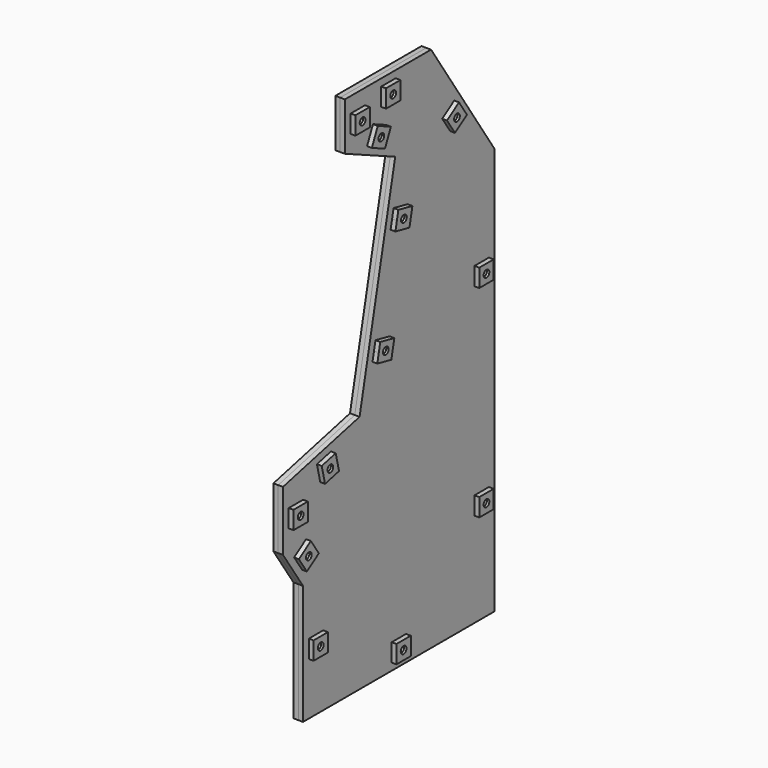
from build123d import *

# Parameters (mm, degrees)
F1_DEPTH = 2
F3_DEPTH = 4
F4_DEPTH = 3


with BuildPart() as f1:
    # F0 (on Right) → F1 (new body)
    with BuildSketch(Plane.YZ):
        Polygon((-100, 0), (0, 0), (0, 170), (-33.1662479036, 220), (-78.1662479036, 220), (-78.1662479036, 200), (-51.890947385, 188.2299089269), (-70.4886778329, 100.1724025904), (-110.4752553419, 90.6706333282), (-110.4752553419, 65.6706333282), (-100, 50), align=None)
        Polygon((-109.4752553419, 65.9740877457), (-109.4752553419, 89.8804123914), (-69.6411657659, 99.3459468658), (-50.7458054642, 188.8126865931), (-77.1662479036, 200.6477943775), (-77.1662479036, 219), (-33.7029229455, 219), (-1, 169.6984886554), (-1, 1), (-99, 1), (-99, 50.3034544175), align=None, mode=Mode.SUBTRACT)
        Polygon((-69.6411657659, 99.3459468658), (-109.4752553419, 89.8804123914), (-109.4752553419, 65.9740877457), (-99, 50.3034544175), (-99, 1), (-1, 1), (-1, 169.6984886554), (-33.7029229455, 219), (-77.1662479036, 219), (-77.1662479036, 200.6477943775), (-50.7458054642, 188.8126865931), align=None)
        Polygon((-75.1662479036, 201.9433831324), (-75.1662479036, 217), (-34.7762730293, 217), (-3, 169.0954659663), (-3, 3), (-97, 3), (-97, 50.9103632525), (-107.4752553419, 66.5809965807), (-107.4752553419, 88.2999705179), (-67.946141632, 97.6930354164), (-48.4555216226, 189.9782419256), align=None, mode=Mode.SUBTRACT)
        Polygon((-34.7762730293, 217), (-75.1662479036, 217), (-75.1662479036, 201.9433831324), (-48.4555216226, 189.9782419256), (-67.946141632, 97.6930354164), (-107.4752553419, 88.2999705179), (-107.4752553419, 66.5809965807), (-97, 50.9103632525), (-97, 3), (-3, 3), (-3, 169.0954659663), align=None)
    extrude(amount=F1_DEPTH)

    # F2 (on face) → F3 (join)
    with BuildSketch(Plane(origin=(0, 0, 0), x_dir=(0, -1, 0), z_dir=(-1, 0, 0))):
        Polygon((92.7442477105, 91.8004110215), (89.0958373538, 92.6673607717), (85.4474269971, 93.5343105219), (83.7135274967, 86.2374898086), (91.0103482101, 84.5035903082), align=None)
        Polygon((86.1891498255, 92.3302144934), (88.8646507537, 91.6944513433), (91.540151682, 91.0586881931), (90.9043885317, 88.3831872642), (90.2686253817, 85.7076863367), (87.5931244535, 86.3434494868), (84.9176235252, 86.979212637), (85.5533867473, 89.6547138677), align=None, mode=Mode.SUBTRACT)
        Polygon((97, 21.9017272087), (97, 25.6517272087), (97, 29.4017272087), (89.5, 29.4017272087), (89.5, 21.9017272087), align=None)
        Polygon((96, 28.4017272087), (96, 25.6517272087), (96, 22.9017272087), (93.25, 22.9017272087), (90.5, 22.9017272087), (90.5, 25.6517272087), (90.5, 28.4017272087), (93.25, 28.4017272087), align=None, mode=Mode.SUBTRACT)
        Polygon((46.25, 3), (50, 3), (53.75, 3), (53.75, 10.5), (46.25, 10.5), align=None)
        Polygon((52.75, 4), (50, 4), (47.25, 4), (47.25, 6.75), (47.25, 9.5), (50, 9.5), (52.75, 9.5), (52.75, 6.75), align=None, mode=Mode.SUBTRACT)
        Polygon((3, 46.9246221639), (3, 43.1746221639), (3, 39.4246221639), (10.5, 39.4246221639), (10.5, 46.9246221639), align=None)
        Polygon((4, 40.4246221639), (4, 43.1746221639), (4, 45.9246221639), (6.7500000593, 45.9246221639), (9.5, 45.9246221639), (9.5, 43.1746221639), (9.5, 40.4246221639), (6.7499999407, 40.4246221639), align=None, mode=Mode.SUBTRACT)
        Polygon((3, 131.2738664916), (3, 127.5238664916), (3, 123.7738664916), (10.5, 123.7738664916), (10.5, 131.2738664916), align=None)
        Polygon((4, 124.7738664916), (4, 127.5238664916), (4, 130.2738664916), (6.75, 130.2738664916), (9.5, 130.2738664916), (9.5, 127.5238664916), (9.5, 124.7738664916), (6.75, 124.7738664916), align=None, mode=Mode.SUBTRACT)
        Polygon((21.0910186334, 196.3687027309), (19.0181281394, 193.2437027309), (16.9452376454, 190.1187027309), (23.1952376454, 185.972921743), (27.3410186334, 192.222921743), align=None)
        Polygon((18.3313417772, 190.3992652659), (19.8514614727, 192.6909319325), (21.3715811683, 194.9825985992), (23.6632483085, 193.4624785895), (25.9549145017, 191.942359208), (24.4347948061, 189.6506925414), (22.9146751105, 187.3590258747), (20.6230085343, 188.8791455103), align=None, mode=Mode.SUBTRACT)
        Polygon((59.1845854245, 217), (55.4345854245, 217), (51.6845854245, 217), (51.6845854245, 209.5), (59.1845854245, 209.5), align=None)
        Polygon((52.6845854245, 216), (55.4345854245, 216), (58.1845854245, 216), (58.1845854245, 213.25), (58.1845854245, 210.5), (55.4345854245, 210.5), (52.6845854245, 210.5), (52.6845854245, 213.2500000366), align=None, mode=Mode.SUBTRACT)
        Polygon((59.7160833992, 195.0224406609), (63.1384060986, 196.5554792583), (66.560728798, 198.0885178557), (63.4946516032, 204.9331632545), (56.6500062044, 201.8670860597), align=None)
        Polygon((65.2392991189, 198.5923269496), (62.729595806, 197.4680986448), (60.2198924931, 196.34387034), (59.0956640162, 198.8535740371), (57.9714358835, 201.3632769658), (60.4811391964, 202.4875052706), (62.9908425093, 203.6117335754), (64.1150707723, 201.1020303559), align=None, mode=Mode.SUBTRACT)
        Polygon((54.2877175008, 162.3636559984), (53.5128120655, 166.0327187624), (52.7379066302, 169.7017815265), (45.3997811022, 168.1519706558), (46.9495919728, 160.8138451278), align=None)
        Polygon((51.9661313425, 168.51672334), (52.5343953284, 165.826077313), (53.1026593143, 163.1354312861), (50.4120132196, 162.5671672858), (47.7213672605, 161.9989033143), (47.1531032746, 164.6895493412), (46.5848392886, 167.3801953682), (49.2754853834, 167.9484593684), align=None, mode=Mode.SUBTRACT)
        Polygon((63.7353976517, 117.6302861347), (62.9604922164, 121.2993488988), (62.185586781, 124.9684116628), (54.847461253, 123.4186007921), (56.3972721236, 116.0804752641), align=None)
        Polygon((61.4138114934, 123.7833534763), (61.9820754793, 121.0927074493), (62.5503394652, 118.4020614224), (59.8596933704, 117.8337974222), (57.1690474113, 117.2655334506), (56.6007834254, 119.9561794775), (56.0325194395, 122.6468255045), (58.7231658384, 123.2150895689), align=None, mode=Mode.SUBTRACT)
        Polygon((100.490904179, 56.1326397114), (102.5749077128, 59.250239633), (104.6589112466, 62.3678395546), (98.4237114034, 66.5358466221), (94.2557043358, 60.3006467789), align=None)
        Polygon((103.2718169918, 62.0922138511), (101.7435477337, 59.8059739086), (100.2152784756, 57.5197339661), (97.9290386515, 59.0480031451), (95.6427985906, 60.5762724823), (97.1710678487, 62.8625124249), (98.6993371068, 65.1487523674), (100.9855770903, 63.6204830818), align=None, mode=Mode.SUBTRACT)
        Polygon((107.4752553419, 74.1772500686), (107.4752553419, 77.9272500686), (107.4752553419, 81.6772500686), (99.9752553419, 81.6772500686), (99.9752553419, 74.1772500686), align=None)
        Polygon((106.4752553419, 80.6772500686), (106.4752553419, 77.9272500686), (106.4752553419, 75.1772500686), (103.7252553419, 75.1772500686), (100.9752553419, 75.1772500686), (100.9752553419, 77.9272500686), (100.9752553419, 80.6772500686), (103.7252553419, 80.6772500686), align=None, mode=Mode.SUBTRACT)
        Polygon((75.1662479036, 206.0738971887), (75.1662479036, 209.8238971887), (75.1662479036, 213.5738971887), (67.6662479036, 213.5738971887), (67.6662479036, 206.0738971887), align=None)
        Polygon((74.1662479036, 212.5738971887), (74.1662479036, 209.8238971887), (74.1662479036, 207.0738971887), (71.4162479036, 207.0738971887), (68.6662479036, 207.0738971887), (68.6662479036, 209.8238971887), (68.6662479036, 212.5738971887), (71.4162479036, 212.5738971887), align=None, mode=Mode.SUBTRACT)
        with BuildLine():
            ThreePointArc((90.9788876036, 89.018950415), (90.386530839, 90.7239652738), (88.8646507537, 91.6944513433))
            Line((88.8646507537, 91.6944513433), (88.5756675037, 90.4783145577))
            ThreePointArc((88.5756675037, 90.4783145577), (89.4057839138, 89.9489585198), (89.7288876036, 89.018950415))
            ThreePointArc((89.7288876036, 89.018950415), (89.1588957084, 87.8420541048), (87.8821077035, 87.5595862724))
            Line((87.8821077035, 87.5595862724), (87.5931244535, 86.3434494868))
            ThreePointArc((87.5931244535, 86.3434494868), (89.671200018, 86.6775331308), (90.9043885317, 88.3831872642))
            ThreePointArc((90.9043885317, 88.3831872642), (90.9601993354, 88.6988938202), (90.9788876036, 89.018950415))
        make_face()
        with BuildLine():
            Line((88.5756675037, 90.4783145577), (88.8646507537, 91.6944513433))
            ThreePointArc((88.8646507537, 91.6944513433), (86.7865753213, 91.3603677807), (85.5533867473, 89.6547138677))
            ThreePointArc((85.5533867473, 89.6547138677), (85.8874702379, 87.5766381327), (87.5931244535, 86.3434494868))
            Line((87.5931244535, 86.3434494868), (87.8821077035, 87.5595862724))
            ThreePointArc((87.8821077035, 87.5595862724), (86.7695234609, 89.3657303151), (88.5756675037, 90.4783145577))
        make_face()
        with BuildLine():
            Line((94.75, 25.6517272087), (96, 25.6517272087))
            ThreePointArc((96, 25.6517272087), (95.1945436483, 27.596270857), (93.25, 28.4017272087))
            ThreePointArc((93.25, 28.4017272087), (91.3054563517, 27.596270857), (90.5, 25.6517272087))
            Line((90.5, 25.6517272087), (91.75, 25.6517272087))
            ThreePointArc((91.75, 25.6517272087), (93.25, 27.1517272087), (94.75, 25.6517272087))
        make_face()
        with BuildLine():
            ThreePointArc((93.25, 22.9017272087), (95.1945436483, 23.7071835605), (96, 25.6517272087))
            Line((96, 25.6517272087), (94.75, 25.6517272087))
            ThreePointArc((94.75, 25.6517272087), (93.25, 24.1517272087), (91.75, 25.6517272087))
            Line((91.75, 25.6517272087), (90.5, 25.6517272087))
            ThreePointArc((90.5, 25.6517272087), (91.3054563517, 23.7071835605), (93.25, 22.9017272087))
        make_face()
        with BuildLine():
            ThreePointArc((47.25, 6.75), (48.0554563517, 4.8054563517), (50, 4))
            Line((50, 4), (50, 5.25))
            ThreePointArc((50, 5.25), (48.5, 6.75), (50, 8.25))
            Line((50, 8.25), (50, 9.5))
            ThreePointArc((50, 9.5), (48.0554563517, 8.6945436483), (47.25, 6.75))
        make_face()
        with BuildLine():
            Line((50, 5.25), (50, 4))
            ThreePointArc((50, 4), (51.9445436483, 4.8054563517), (52.75, 6.75))
            ThreePointArc((52.75, 6.75), (51.9445436483, 8.6945436483), (50, 9.5))
            Line((50, 9.5), (50, 8.25))
            ThreePointArc((50, 8.25), (51.0606601718, 7.8106601718), (51.5, 6.75))
            ThreePointArc((51.5, 6.75), (51.0606601718, 5.6893398282), (50, 5.25))
        make_face()
        with BuildLine():
            Line((5.25, 43.1746221639), (4, 43.1746221639))
            ThreePointArc((4, 43.1746221639), (4.8054563308, 41.2300785366), (6.7499999407, 40.4246221639))
            ThreePointArc((6.7499999407, 40.4246221639), (8.6945436273, 41.2300784946), (9.5, 43.1746221639))
            Line((9.5, 43.1746221639), (8.25, 43.1746221639))
            ThreePointArc((8.25, 43.1746221639), (6.75, 41.6746221639), (5.25, 43.1746221639))
        make_face()
        with BuildLine():
            ThreePointArc((6.7500000593, 45.9246221639), (4.8054563727, 45.1191658331), (4, 43.1746221639))
            Line((4, 43.1746221639), (5.25, 43.1746221639))
            ThreePointArc((5.25, 43.1746221639), (6.75, 44.6746221639), (8.25, 43.1746221639))
            Line((8.25, 43.1746221639), (9.5, 43.1746221639))
            ThreePointArc((9.5, 43.1746221639), (8.6945436692, 45.1191657912), (6.7500000593, 45.9246221639))
        make_face()
        with BuildLine():
            ThreePointArc((6.75, 130.2738664916), (4.8054563517, 129.4684101398), (4, 127.5238664916))
            Line((4, 127.5238664916), (5.25, 127.5238664916))
            ThreePointArc((5.25, 127.5238664916), (6.75, 129.0238664916), (8.25, 127.5238664916))
            Line((8.25, 127.5238664916), (9.5, 127.5238664916))
            ThreePointArc((9.5, 127.5238664916), (8.6945436483, 129.4684101398), (6.75, 130.2738664916))
        make_face()
        with BuildLine():
            Line((5.25, 127.5238664916), (4, 127.5238664916))
            ThreePointArc((4, 127.5238664916), (4.8054563517, 125.5793228433), (6.75, 124.7738664916))
            ThreePointArc((6.75, 124.7738664916), (8.6945436483, 125.5793228433), (9.5, 127.5238664916))
            Line((9.5, 127.5238664916), (8.25, 127.5238664916))
            ThreePointArc((8.25, 127.5238664916), (6.75, 126.0238664916), (5.25, 127.5238664916))
        make_face()
        with BuildLine():
            ThreePointArc((23.6632483085, 193.4624785895), (21.5975623226, 193.8661522785), (19.8514614727, 192.6909319325))
            Line((19.8514614727, 192.6909319325), (20.8931281394, 191.9999684345))
            ThreePointArc((20.8931281394, 191.9999684345), (22.5761408413, 192.6069528986), (23.6431281394, 191.170812237))
            ThreePointArc((23.6431281394, 191.170812237), (23.579268801, 190.7377995351), (23.3931281394, 190.3416560394))
            Line((23.3931281394, 190.3416560394), (24.4347948061, 189.6506925414))
            ThreePointArc((24.4347948061, 189.6506925414), (24.7760526857, 190.3769556168), (24.8931281394, 191.170812237))
            ThreePointArc((24.8931281394, 191.170812237), (24.5662284742, 192.4712293883), (23.6632483085, 193.4624785895))
        make_face()
        with BuildLine():
            Line((20.8931281394, 191.9999684345), (19.8514614727, 192.6909319325))
            ThreePointArc((19.8514614727, 192.6909319325), (19.447788165, 190.6252460885), (20.6230085343, 188.8791455103))
            ThreePointArc((20.6230085343, 188.8791455103), (22.6886942879, 188.4754722625), (24.4347948061, 189.6506925414))
            Line((24.4347948061, 189.6506925414), (23.3931281394, 190.3416560394))
            ThreePointArc((23.3931281394, 190.3416560394), (21.3139719418, 189.920812237), (20.8931281394, 191.9999684345))
        make_face()
        with BuildLine():
            Line((55.4345854245, 214.75), (55.4345854245, 216))
            ThreePointArc((55.4345854245, 216), (53.4900417892, 215.1945436612), (52.6845854245, 213.2500000366))
            ThreePointArc((52.6845854245, 213.2500000366), (53.4900417633, 211.3054563647), (55.4345854245, 210.5))
            Line((55.4345854245, 210.5), (55.4345854245, 211.75))
            ThreePointArc((55.4345854245, 211.75), (53.9345854245, 213.25), (55.4345854245, 214.75))
        make_face()
        with BuildLine():
            ThreePointArc((58.1845854245, 213.25), (57.3791290728, 215.1945436483), (55.4345854245, 216))
            Line((55.4345854245, 216), (55.4345854245, 214.75))
            ThreePointArc((55.4345854245, 214.75), (56.4952455963, 214.3106601718), (56.9345854245, 213.25))
            ThreePointArc((56.9345854245, 213.25), (56.4952455963, 212.1893398282), (55.4345854245, 211.75))
            Line((55.4345854245, 211.75), (55.4345854245, 210.5))
            ThreePointArc((55.4345854245, 210.5), (57.3791290728, 211.3054563517), (58.1845854245, 213.25))
        make_face()
        with BuildLine():
            ThreePointArc((59.0956640162, 198.8535740371), (60.6256885311, 197.4082243435), (62.729595806, 197.4680986448))
            Line((62.729595806, 197.4680986448), (62.2185829402, 198.608872878))
            ThreePointArc((62.2185829402, 198.608872878), (60.2364384214, 199.3645865187), (60.9921520622, 201.3467310375))
            Line((60.9921520622, 201.3467310375), (60.4811391964, 202.4875052706))
            ThreePointArc((60.4811391964, 202.4875052706), (59.035789887, 200.9574809278), (59.0956640162, 198.8535740371))
        make_face()
        with BuildLine():
            Line((62.2185829402, 198.608872878), (62.729595806, 197.4680986448))
            ThreePointArc((62.729595806, 197.4680986448), (63.9134108108, 198.4826644788), (64.3553675012, 199.9778019577))
            ThreePointArc((64.3553675012, 199.9778019577), (64.2946224162, 200.5526132331), (64.1150707723, 201.1020303559))
            ThreePointArc((64.1150707723, 201.1020303559), (62.5850462268, 202.5473796652), (60.4811391964, 202.4875052706))
            Line((60.4811391964, 202.4875052706), (60.9921520622, 201.3467310375))
            ThreePointArc((60.9921520622, 201.3467310375), (62.4208970352, 201.236734672), (63.1053675012, 199.9778019577))
            ThreePointArc((63.1053675012, 199.9778019577), (62.8643002155, 199.1622724237), (62.2185829402, 198.608872878))
        make_face()
        with BuildLine():
            Line((51.3113744071, 165.5677755012), (52.5343953284, 165.826077313))
            ThreePointArc((52.5343953284, 165.826077313), (51.344500064, 167.5622106776), (49.2754853834, 167.9484593684))
            ThreePointArc((49.2754853834, 167.9484593684), (47.539351951, 166.7585640896), (47.1531032746, 164.6895493412))
            Line((47.1531032746, 164.6895493412), (48.3761241959, 164.947851153))
            ThreePointArc((48.3761241959, 164.947851153), (49.5337871274, 166.7254384327), (51.3113744071, 165.5677755012))
        make_face()
        with BuildLine():
            ThreePointArc((52.5937493015, 165.2578133271), (52.5788705579, 165.5434909653), (52.5343953284, 165.826077313))
            Line((52.5343953284, 165.826077313), (51.3113744071, 165.5677755012))
            ThreePointArc((51.3113744071, 165.5677755012), (51.3356336232, 165.4136374934), (51.3437493015, 165.2578133271))
            ThreePointArc((51.3437493015, 165.2578133271), (49.9995734678, 163.7659290055), (48.3761241959, 164.947851153))
            Line((48.3761241959, 164.947851153), (47.1531032746, 164.6895493412))
            ThreePointArc((47.1531032746, 164.6895493412), (48.342998539, 162.9534159767), (50.4120132196, 162.5671672858))
            ThreePointArc((50.4120132196, 162.5671672858), (51.9797766626, 163.5257951076), (52.5937493015, 165.2578133271))
        make_face()
        with BuildLine():
            Line((60.7590545579, 120.8344056376), (61.9820754793, 121.0927074493))
            ThreePointArc((61.9820754793, 121.0927074493), (60.7921803451, 122.8288407291), (58.7231658384, 123.2150895689))
            ThreePointArc((58.7231658384, 123.2150895689), (56.9870321867, 122.0251943562), (56.6007834254, 119.9561794775))
            Line((56.6007834254, 119.9561794775), (57.8238043467, 120.2144812893))
            ThreePointArc((57.8238043467, 120.2144812893), (58.9814672782, 121.992068569), (60.7590545579, 120.8344056376))
        make_face()
        with BuildLine():
            ThreePointArc((62.0414294523, 120.5244434634), (62.0265507087, 120.8101211016), (61.9820754793, 121.0927074493))
            Line((61.9820754793, 121.0927074493), (60.7590545579, 120.8344056376))
            ThreePointArc((60.7590545579, 120.8344056376), (60.783313774, 120.6802676297), (60.7914294523, 120.5244434634))
            ThreePointArc((60.7914294523, 120.5244434634), (59.4472536186, 119.0325591418), (57.8238043467, 120.2144812893))
            Line((57.8238043467, 120.2144812893), (56.6007834254, 119.9561794775))
            ThreePointArc((56.6007834254, 119.9561794775), (57.7906786898, 118.220046113), (59.8596933704, 117.8337974222))
            ThreePointArc((59.8596933704, 117.8337974222), (61.4274568134, 118.7924252439), (62.0414294523, 120.5244434634))
        make_face()
        with BuildLine():
            Line((105.2252553419, 77.9272500686), (106.4752553419, 77.9272500686))
            ThreePointArc((106.4752553419, 77.9272500686), (105.6697989902, 79.8717937168), (103.7252553419, 80.6772500686))
            ThreePointArc((103.7252553419, 80.6772500686), (101.7807116936, 79.8717937168), (100.9752553419, 77.9272500686))
            Line((100.9752553419, 77.9272500686), (102.2252553419, 77.9272500686))
            ThreePointArc((102.2252553419, 77.9272500686), (103.7252553419, 79.4272500686), (105.2252553419, 77.9272500686))
        make_face()
        with BuildLine():
            ThreePointArc((103.7252553419, 75.1772500686), (105.6697989902, 75.9827064203), (106.4752553419, 77.9272500686))
            Line((106.4752553419, 77.9272500686), (105.2252553419, 77.9272500686))
            ThreePointArc((105.2252553419, 77.9272500686), (103.7252553419, 76.4272500686), (102.2252553419, 77.9272500686))
            Line((102.2252553419, 77.9272500686), (100.9752553419, 77.9272500686))
            ThreePointArc((100.9752553419, 77.9272500686), (101.7807116936, 75.9827064203), (103.7252553419, 75.1772500686))
        make_face()
        with BuildLine():
            Line((100.7043477598, 60.5006417532), (101.7435477337, 59.8059739086))
            ThreePointArc((101.7435477337, 59.8059739086), (102.0888149489, 60.5357006951), (102.2073077912, 61.3342431667))
            ThreePointArc((102.2073077912, 61.3342431667), (101.8827191555, 62.6303449041), (100.9855770903, 63.6204830818))
            ThreePointArc((100.9855770903, 63.6204830818), (98.9213416045, 64.0315084942), (97.1710678487, 62.8625124249))
            Line((97.1710678487, 62.8625124249), (98.2102678225, 62.1678445803))
            ThreePointArc((98.2102678225, 62.1678445803), (99.8928764121, 62.7696107073), (100.9573077912, 61.3342431667))
            ThreePointArc((100.9573077912, 61.3342431667), (100.8926753317, 60.8986745458), (100.7043477598, 60.5006417532))
        make_face()
        with BuildLine():
            ThreePointArc((97.9290386515, 59.0480031451), (99.9932740719, 58.636977858), (101.7435477337, 59.8059739086))
            Line((101.7435477337, 59.8059739086), (100.7043477598, 60.5006417532))
            ThreePointArc((100.7043477598, 60.5006417532), (98.6237063777, 60.0872031981), (98.2102678225, 62.1678445803))
            Line((98.2102678225, 62.1678445803), (97.1710678487, 62.8625124249))
            ThreePointArc((97.1710678487, 62.8625124249), (96.7600424824, 60.798276886), (97.9290386515, 59.0480031451))
        make_face()
        with BuildLine():
            ThreePointArc((71.4162479036, 207.0738971887), (73.3607915518, 207.8793535405), (74.1662479036, 209.8238971887))
            Line((74.1662479036, 209.8238971887), (72.9162479036, 209.8238971887))
            ThreePointArc((72.9162479036, 209.8238971887), (71.4162479036, 208.3238971887), (69.9162479036, 209.8238971887))
            Line((69.9162479036, 209.8238971887), (68.6662479036, 209.8238971887))
            ThreePointArc((68.6662479036, 209.8238971887), (69.4717042553, 207.8793535405), (71.4162479036, 207.0738971887))
        make_face()
        with BuildLine():
            Line((72.9162479036, 209.8238971887), (74.1662479036, 209.8238971887))
            ThreePointArc((74.1662479036, 209.8238971887), (73.3607915518, 211.768440837), (71.4162479036, 212.5738971887))
            ThreePointArc((71.4162479036, 212.5738971887), (69.4717042553, 211.768440837), (68.6662479036, 209.8238971887))
            Line((68.6662479036, 209.8238971887), (69.9162479036, 209.8238971887))
            ThreePointArc((69.9162479036, 209.8238971887), (71.4162479036, 211.3238971887), (72.9162479036, 209.8238971887))
        make_face()
        with BuildLine():
            ThreePointArc((85.5533867473, 89.6547138677), (86.7865753213, 91.3603677807), (88.8646507537, 91.6944513433))
            Line((88.8646507537, 91.6944513433), (86.1891498255, 92.3302144934))
            Line((86.1891498255, 92.3302144934), (85.5533867473, 89.6547138677))
        make_face()
        with BuildLine():
            ThreePointArc((87.5931244535, 86.3434494868), (85.8874702379, 87.5766381327), (85.5533867473, 89.6547138677))
            Line((85.5533867473, 89.6547138677), (84.9176235252, 86.979212637))
            Line((84.9176235252, 86.979212637), (87.5931244535, 86.3434494868))
        make_face()
        with BuildLine():
            Line((90.2686253817, 85.7076863367), (90.9043885317, 88.3831872642))
            ThreePointArc((90.9043885317, 88.3831872642), (89.671200018, 86.6775331308), (87.5931244535, 86.3434494868))
            Line((87.5931244535, 86.3434494868), (90.2686253817, 85.7076863367))
        make_face()
        with BuildLine():
            Line((91.540151682, 91.0586881931), (88.8646507537, 91.6944513433))
            ThreePointArc((88.8646507537, 91.6944513433), (90.386530839, 90.7239652738), (90.9788876036, 89.018950415))
            ThreePointArc((90.9788876036, 89.018950415), (90.9601993354, 88.6988938202), (90.9043885317, 88.3831872642))
            Line((90.9043885317, 88.3831872642), (91.540151682, 91.0586881931))
        make_face()
        with BuildLine():
            ThreePointArc((93.25, 28.4017272087), (95.1945436483, 27.596270857), (96, 25.6517272087))
            Line((96, 25.6517272087), (96, 28.4017272087))
            Line((96, 28.4017272087), (93.25, 28.4017272087))
        make_face()
        with BuildLine():
            ThreePointArc((90.5, 25.6517272087), (91.3054563517, 27.596270857), (93.25, 28.4017272087))
            Line((93.25, 28.4017272087), (90.5, 28.4017272087))
            Line((90.5, 28.4017272087), (90.5, 25.6517272087))
        make_face()
        with BuildLine():
            Line((90.5, 22.9017272087), (93.25, 22.9017272087))
            ThreePointArc((93.25, 22.9017272087), (91.3054563517, 23.7071835605), (90.5, 25.6517272087))
            Line((90.5, 25.6517272087), (90.5, 22.9017272087))
        make_face()
        with BuildLine():
            Line((96, 22.9017272087), (96, 25.6517272087))
            ThreePointArc((96, 25.6517272087), (95.1945436483, 23.7071835605), (93.25, 22.9017272087))
            Line((93.25, 22.9017272087), (96, 22.9017272087))
        make_face()
        with BuildLine():
            ThreePointArc((50, 9.5), (51.9445436483, 8.6945436483), (52.75, 6.75))
            Line((52.75, 6.75), (52.75, 9.5))
            Line((52.75, 9.5), (50, 9.5))
        make_face()
        with BuildLine():
            Line((47.25, 9.5), (47.25, 6.75))
            ThreePointArc((47.25, 6.75), (48.0554563517, 8.6945436483), (50, 9.5))
            Line((50, 9.5), (47.25, 9.5))
        make_face()
        with BuildLine():
            Line((47.25, 4), (50, 4))
            ThreePointArc((50, 4), (48.0554563517, 4.8054563517), (47.25, 6.75))
            Line((47.25, 6.75), (47.25, 4))
        make_face()
        with BuildLine():
            ThreePointArc((52.75, 6.75), (51.9445436483, 4.8054563517), (50, 4))
            Line((50, 4), (52.75, 4))
            Line((52.75, 4), (52.75, 6.75))
        make_face()
        with BuildLine():
            Line((4, 45.9246221639), (4, 43.1746221639))
            ThreePointArc((4, 43.1746221639), (4.8054563727, 45.1191658331), (6.7500000593, 45.9246221639))
            Line((6.7500000593, 45.9246221639), (4, 45.9246221639))
        make_face()
        with BuildLine():
            Line((9.5, 45.9246221639), (6.7500000593, 45.9246221639))
            ThreePointArc((6.7500000593, 45.9246221639), (8.6945436692, 45.1191657912), (9.5, 43.1746221639))
            Line((9.5, 43.1746221639), (9.5, 45.9246221639))
        make_face()
        with BuildLine():
            ThreePointArc((6.7499999407, 40.4246221639), (4.8054563308, 41.2300785366), (4, 43.1746221639))
            Line((4, 43.1746221639), (4, 40.4246221639))
            Line((4, 40.4246221639), (6.7499999407, 40.4246221639))
        make_face()
        with BuildLine():
            ThreePointArc((9.5, 43.1746221639), (8.6945436273, 41.2300784946), (6.7499999407, 40.4246221639))
            Line((6.7499999407, 40.4246221639), (9.5, 40.4246221639))
            Line((9.5, 40.4246221639), (9.5, 43.1746221639))
        make_face()
        with BuildLine():
            Line((4, 130.2738664916), (4, 127.5238664916))
            ThreePointArc((4, 127.5238664916), (4.8054563517, 129.4684101398), (6.75, 130.2738664916))
            Line((6.75, 130.2738664916), (4, 130.2738664916))
        make_face()
        with BuildLine():
            ThreePointArc((6.75, 124.7738664916), (4.8054563517, 125.5793228433), (4, 127.5238664916))
            Line((4, 127.5238664916), (4, 124.7738664916))
            Line((4, 124.7738664916), (6.75, 124.7738664916))
        make_face()
        with BuildLine():
            ThreePointArc((9.5, 127.5238664916), (8.6945436483, 125.5793228433), (6.75, 124.7738664916))
            Line((6.75, 124.7738664916), (9.5, 124.7738664916))
            Line((9.5, 124.7738664916), (9.5, 127.5238664916))
        make_face()
        with BuildLine():
            Line((9.5, 130.2738664916), (6.75, 130.2738664916))
            ThreePointArc((6.75, 130.2738664916), (8.6945436483, 129.4684101398), (9.5, 127.5238664916))
            Line((9.5, 127.5238664916), (9.5, 130.2738664916))
        make_face()
        with BuildLine():
            Line((21.3715811683, 194.9825985992), (19.8514614727, 192.6909319325))
            ThreePointArc((19.8514614727, 192.6909319325), (21.5975623226, 193.8661522785), (23.6632483085, 193.4624785895))
            Line((23.6632483085, 193.4624785895), (21.3715811683, 194.9825985992))
        make_face()
        with BuildLine():
            ThreePointArc((20.6230085343, 188.8791455103), (19.447788165, 190.6252460885), (19.8514614727, 192.6909319325))
            Line((19.8514614727, 192.6909319325), (18.3313417772, 190.3992652659))
            Line((18.3313417772, 190.3992652659), (20.6230085343, 188.8791455103))
        make_face()
        with BuildLine():
            Line((25.9549145017, 191.942359208), (23.6632483085, 193.4624785895))
            ThreePointArc((23.6632483085, 193.4624785895), (24.5662284742, 192.4712293883), (24.8931281394, 191.170812237))
            ThreePointArc((24.8931281394, 191.170812237), (24.7760526857, 190.3769556168), (24.4347948061, 189.6506925414))
            Line((24.4347948061, 189.6506925414), (25.9549145017, 191.942359208))
        make_face()
        with BuildLine():
            ThreePointArc((24.4347948061, 189.6506925414), (22.6886942879, 188.4754722625), (20.6230085343, 188.8791455103))
            Line((20.6230085343, 188.8791455103), (22.9146751105, 187.3590258747))
            Line((22.9146751105, 187.3590258747), (24.4347948061, 189.6506925414))
        make_face()
        with BuildLine():
            ThreePointArc((52.6845854245, 213.2500000366), (53.4900417892, 215.1945436612), (55.4345854245, 216))
            Line((55.4345854245, 216), (52.6845854245, 216))
            Line((52.6845854245, 216), (52.6845854245, 213.2500000366))
        make_face()
        with BuildLine():
            Line((58.1845854245, 216), (55.4345854245, 216))
            ThreePointArc((55.4345854245, 216), (57.3791290728, 215.1945436483), (58.1845854245, 213.25))
            Line((58.1845854245, 213.25), (58.1845854245, 216))
        make_face()
        with BuildLine():
            Line((58.1845854245, 210.5), (58.1845854245, 213.25))
            ThreePointArc((58.1845854245, 213.25), (57.3791290728, 211.3054563517), (55.4345854245, 210.5))
            Line((55.4345854245, 210.5), (58.1845854245, 210.5))
        make_face()
        with BuildLine():
            ThreePointArc((55.4345854245, 210.5), (53.4900417633, 211.3054563647), (52.6845854245, 213.2500000366))
            Line((52.6845854245, 213.2500000366), (52.6845854245, 210.5))
            Line((52.6845854245, 210.5), (55.4345854245, 210.5))
        make_face()
        with BuildLine():
            ThreePointArc((60.4811391964, 202.4875052706), (62.5850462268, 202.5473796652), (64.1150707723, 201.1020303559))
            Line((64.1150707723, 201.1020303559), (62.9908425093, 203.6117335754))
            Line((62.9908425093, 203.6117335754), (60.4811391964, 202.4875052706))
        make_face()
        with BuildLine():
            Line((57.9714358835, 201.3632769658), (59.0956640162, 198.8535740371))
            ThreePointArc((59.0956640162, 198.8535740371), (59.035789887, 200.9574809278), (60.4811391964, 202.4875052706))
            Line((60.4811391964, 202.4875052706), (57.9714358835, 201.3632769658))
        make_face()
        with BuildLine():
            ThreePointArc((64.3553675012, 199.9778019577), (63.9134108108, 198.4826644788), (62.729595806, 197.4680986448))
            Line((62.729595806, 197.4680986448), (65.2392991189, 198.5923269496))
            Line((65.2392991189, 198.5923269496), (64.1150707723, 201.1020303559))
            ThreePointArc((64.1150707723, 201.1020303559), (64.2946224162, 200.5526132331), (64.3553675012, 199.9778019577))
        make_face()
        with BuildLine():
            Line((60.2198924931, 196.34387034), (62.729595806, 197.4680986448))
            ThreePointArc((62.729595806, 197.4680986448), (60.6256885311, 197.4082243435), (59.0956640162, 198.8535740371))
            Line((59.0956640162, 198.8535740371), (60.2198924931, 196.34387034))
        make_face()
        with BuildLine():
            ThreePointArc((47.1531032746, 164.6895493412), (47.539351951, 166.7585640896), (49.2754853834, 167.9484593684))
            Line((49.2754853834, 167.9484593684), (46.5848392886, 167.3801953682))
            Line((46.5848392886, 167.3801953682), (47.1531032746, 164.6895493412))
        make_face()
        with BuildLine():
            ThreePointArc((49.2754853834, 167.9484593684), (51.344500064, 167.5622106776), (52.5343953284, 165.826077313))
            Line((52.5343953284, 165.826077313), (51.9661313425, 168.51672334))
            Line((51.9661313425, 168.51672334), (49.2754853834, 167.9484593684))
        make_face()
        with BuildLine():
            Line((53.1026593143, 163.1354312861), (52.5343953284, 165.826077313))
            ThreePointArc((52.5343953284, 165.826077313), (52.5788705579, 165.5434909653), (52.5937493015, 165.2578133271))
            ThreePointArc((52.5937493015, 165.2578133271), (51.9797766626, 163.5257951076), (50.4120132196, 162.5671672858))
            Line((50.4120132196, 162.5671672858), (53.1026593143, 163.1354312861))
        make_face()
        with BuildLine():
            Line((47.7213672605, 161.9989033143), (50.4120132196, 162.5671672858))
            ThreePointArc((50.4120132196, 162.5671672858), (48.342998539, 162.9534159767), (47.1531032746, 164.6895493412))
            Line((47.1531032746, 164.6895493412), (47.7213672605, 161.9989033143))
        make_face()
        with BuildLine():
            ThreePointArc((56.6007834254, 119.9561794775), (56.9870321867, 122.0251943562), (58.7231658384, 123.2150895689))
            Line((58.7231658384, 123.2150895689), (56.0325194395, 122.6468255045))
            Line((56.0325194395, 122.6468255045), (56.6007834254, 119.9561794775))
        make_face()
        with BuildLine():
            ThreePointArc((58.7231658384, 123.2150895689), (60.7921803451, 122.8288407291), (61.9820754793, 121.0927074493))
            Line((61.9820754793, 121.0927074493), (61.4138114934, 123.7833534763))
            Line((61.4138114934, 123.7833534763), (58.7231658384, 123.2150895689))
        make_face()
        with BuildLine():
            Line((62.5503394652, 118.4020614224), (61.9820754793, 121.0927074493))
            ThreePointArc((61.9820754793, 121.0927074493), (62.0265507087, 120.8101211016), (62.0414294523, 120.5244434634))
            ThreePointArc((62.0414294523, 120.5244434634), (61.4274568134, 118.7924252439), (59.8596933704, 117.8337974222))
            Line((59.8596933704, 117.8337974222), (62.5503394652, 118.4020614224))
        make_face()
        with BuildLine():
            Line((57.1690474113, 117.2655334506), (59.8596933704, 117.8337974222))
            ThreePointArc((59.8596933704, 117.8337974222), (57.7906786898, 118.220046113), (56.6007834254, 119.9561794775))
            Line((56.6007834254, 119.9561794775), (57.1690474113, 117.2655334506))
        make_face()
        with BuildLine():
            ThreePointArc((100.9752553419, 77.9272500686), (101.7807116936, 79.8717937168), (103.7252553419, 80.6772500686))
            Line((103.7252553419, 80.6772500686), (100.9752553419, 80.6772500686))
            Line((100.9752553419, 80.6772500686), (100.9752553419, 77.9272500686))
        make_face()
        with BuildLine():
            ThreePointArc((103.7252553419, 80.6772500686), (105.6697989902, 79.8717937168), (106.4752553419, 77.9272500686))
            Line((106.4752553419, 77.9272500686), (106.4752553419, 80.6772500686))
            Line((106.4752553419, 80.6772500686), (103.7252553419, 80.6772500686))
        make_face()
        with BuildLine():
            Line((100.9752553419, 75.1772500686), (103.7252553419, 75.1772500686))
            ThreePointArc((103.7252553419, 75.1772500686), (101.7807116936, 75.9827064203), (100.9752553419, 77.9272500686))
            Line((100.9752553419, 77.9272500686), (100.9752553419, 75.1772500686))
        make_face()
        with BuildLine():
            Line((106.4752553419, 75.1772500686), (106.4752553419, 77.9272500686))
            ThreePointArc((106.4752553419, 77.9272500686), (105.6697989902, 75.9827064203), (103.7252553419, 75.1772500686))
            Line((103.7252553419, 75.1772500686), (106.4752553419, 75.1772500686))
        make_face()
        with BuildLine():
            ThreePointArc((97.1710678487, 62.8625124249), (98.9213416045, 64.0315084942), (100.9855770903, 63.6204830818))
            Line((100.9855770903, 63.6204830818), (98.6993371068, 65.1487523674))
            Line((98.6993371068, 65.1487523674), (97.1710678487, 62.8625124249))
        make_face()
        with BuildLine():
            ThreePointArc((102.2073077912, 61.3342431667), (102.0888149489, 60.5357006951), (101.7435477337, 59.8059739086))
            Line((101.7435477337, 59.8059739086), (103.2718169918, 62.0922138511))
            Line((103.2718169918, 62.0922138511), (100.9855770903, 63.6204830818))
            ThreePointArc((100.9855770903, 63.6204830818), (101.8827191555, 62.6303449041), (102.2073077912, 61.3342431667))
        make_face()
        with BuildLine():
            Line((100.2152784756, 57.5197339661), (101.7435477337, 59.8059739086))
            ThreePointArc((101.7435477337, 59.8059739086), (99.9932740719, 58.636977858), (97.9290386515, 59.0480031451))
            Line((97.9290386515, 59.0480031451), (100.2152784756, 57.5197339661))
        make_face()
        with BuildLine():
            Line((95.6427985906, 60.5762724823), (97.9290386515, 59.0480031451))
            ThreePointArc((97.9290386515, 59.0480031451), (96.7600424824, 60.798276886), (97.1710678487, 62.8625124249))
            Line((97.1710678487, 62.8625124249), (95.6427985906, 60.5762724823))
        make_face()
        with BuildLine():
            ThreePointArc((71.4162479036, 212.5738971887), (73.3607915518, 211.768440837), (74.1662479036, 209.8238971887))
            Line((74.1662479036, 209.8238971887), (74.1662479036, 212.5738971887))
            Line((74.1662479036, 212.5738971887), (71.4162479036, 212.5738971887))
        make_face()
        with BuildLine():
            Line((74.1662479036, 207.0738971887), (74.1662479036, 209.8238971887))
            ThreePointArc((74.1662479036, 209.8238971887), (73.3607915518, 207.8793535405), (71.4162479036, 207.0738971887))
            Line((71.4162479036, 207.0738971887), (74.1662479036, 207.0738971887))
        make_face()
        with BuildLine():
            ThreePointArc((68.6662479036, 209.8238971887), (69.4717042553, 211.768440837), (71.4162479036, 212.5738971887))
            Line((71.4162479036, 212.5738971887), (68.6662479036, 212.5738971887))
            Line((68.6662479036, 212.5738971887), (68.6662479036, 209.8238971887))
        make_face()
        with BuildLine():
            Line((68.6662479036, 207.0738971887), (71.4162479036, 207.0738971887))
            ThreePointArc((71.4162479036, 207.0738971887), (69.4717042553, 207.8793535405), (68.6662479036, 209.8238971887))
            Line((68.6662479036, 209.8238971887), (68.6662479036, 207.0738971887))
        make_face()
    extrude(amount=-F3_DEPTH)

    # F2 (on face) → F4 (cut)
    with BuildSketch(Plane(origin=(0, 0, 0), x_dir=(0, -1, 0), z_dir=(-1, 0, 0))):
        with BuildLine():
            ThreePointArc((90.9788876036, 89.018950415), (90.386530839, 90.7239652738), (88.8646507537, 91.6944513433))
            Line((88.8646507537, 91.6944513433), (88.5756675037, 90.4783145577))
            ThreePointArc((88.5756675037, 90.4783145577), (89.4057839138, 89.9489585198), (89.7288876036, 89.018950415))
            ThreePointArc((89.7288876036, 89.018950415), (89.1588957084, 87.8420541048), (87.8821077035, 87.5595862724))
            Line((87.8821077035, 87.5595862724), (87.5931244535, 86.3434494868))
            ThreePointArc((87.5931244535, 86.3434494868), (89.671200018, 86.6775331308), (90.9043885317, 88.3831872642))
            ThreePointArc((90.9043885317, 88.3831872642), (90.9601993354, 88.6988938202), (90.9788876036, 89.018950415))
        make_face()
        with BuildLine():
            Line((88.5756675037, 90.4783145577), (88.8646507537, 91.6944513433))
            ThreePointArc((88.8646507537, 91.6944513433), (86.7865753213, 91.3603677807), (85.5533867473, 89.6547138677))
            ThreePointArc((85.5533867473, 89.6547138677), (85.8874702379, 87.5766381327), (87.5931244535, 86.3434494868))
            Line((87.5931244535, 86.3434494868), (87.8821077035, 87.5595862724))
            ThreePointArc((87.8821077035, 87.5595862724), (86.7695234609, 89.3657303151), (88.5756675037, 90.4783145577))
        make_face()
        with BuildLine():
            Line((87.8821077035, 87.5595862724), (88.5756675037, 90.4783145577))
            ThreePointArc((88.5756675037, 90.4783145577), (86.7695234609, 89.3657303151), (87.8821077035, 87.5595862724))
        make_face()
        with BuildLine():
            ThreePointArc((89.7288876036, 89.018950415), (89.4057839138, 89.9489585198), (88.5756675037, 90.4783145577))
            Line((88.5756675037, 90.4783145577), (87.8821077035, 87.5595862724))
            ThreePointArc((87.8821077035, 87.5595862724), (89.1588957084, 87.8420541048), (89.7288876036, 89.018950415))
        make_face()
        with BuildLine():
            Line((94.75, 25.6517272087), (96, 25.6517272087))
            ThreePointArc((96, 25.6517272087), (95.1945436483, 27.596270857), (93.25, 28.4017272087))
            ThreePointArc((93.25, 28.4017272087), (91.3054563517, 27.596270857), (90.5, 25.6517272087))
            Line((90.5, 25.6517272087), (91.75, 25.6517272087))
            ThreePointArc((91.75, 25.6517272087), (93.25, 27.1517272087), (94.75, 25.6517272087))
        make_face()
        with BuildLine():
            ThreePointArc((93.25, 22.9017272087), (95.1945436483, 23.7071835605), (96, 25.6517272087))
            Line((96, 25.6517272087), (94.75, 25.6517272087))
            ThreePointArc((94.75, 25.6517272087), (93.25, 24.1517272087), (91.75, 25.6517272087))
            Line((91.75, 25.6517272087), (90.5, 25.6517272087))
            ThreePointArc((90.5, 25.6517272087), (91.3054563517, 23.7071835605), (93.25, 22.9017272087))
        make_face()
        with BuildLine():
            Line((91.75, 25.6517272087), (94.75, 25.6517272087))
            ThreePointArc((94.75, 25.6517272087), (93.25, 27.1517272087), (91.75, 25.6517272087))
        make_face()
        with BuildLine():
            ThreePointArc((91.75, 25.6517272087), (93.25, 24.1517272087), (94.75, 25.6517272087))
            Line((94.75, 25.6517272087), (91.75, 25.6517272087))
        make_face()
        with BuildLine():
            ThreePointArc((47.25, 6.75), (48.0554563517, 4.8054563517), (50, 4))
            Line((50, 4), (50, 5.25))
            ThreePointArc((50, 5.25), (48.5, 6.75), (50, 8.25))
            Line((50, 8.25), (50, 9.5))
            ThreePointArc((50, 9.5), (48.0554563517, 8.6945436483), (47.25, 6.75))
        make_face()
        with BuildLine():
            Line((50, 5.25), (50, 4))
            ThreePointArc((50, 4), (51.9445436483, 4.8054563517), (52.75, 6.75))
            ThreePointArc((52.75, 6.75), (51.9445436483, 8.6945436483), (50, 9.5))
            Line((50, 9.5), (50, 8.25))
            ThreePointArc((50, 8.25), (51.0606601718, 7.8106601718), (51.5, 6.75))
            ThreePointArc((51.5, 6.75), (51.0606601718, 5.6893398282), (50, 5.25))
        make_face()
        with BuildLine():
            ThreePointArc((50, 8.25), (48.5, 6.75), (50, 5.25))
            Line((50, 5.25), (50, 8.25))
        make_face()
        with BuildLine():
            Line((50, 8.25), (50, 5.25))
            ThreePointArc((50, 5.25), (51.0606601718, 5.6893398282), (51.5, 6.75))
            ThreePointArc((51.5, 6.75), (51.0606601718, 7.8106601718), (50, 8.25))
        make_face()
        with BuildLine():
            ThreePointArc((6.7500000593, 45.9246221639), (4.8054563727, 45.1191658331), (4, 43.1746221639))
            Line((4, 43.1746221639), (5.25, 43.1746221639))
            ThreePointArc((5.25, 43.1746221639), (6.75, 44.6746221639), (8.25, 43.1746221639))
            Line((8.25, 43.1746221639), (9.5, 43.1746221639))
            ThreePointArc((9.5, 43.1746221639), (8.6945436692, 45.1191657912), (6.7500000593, 45.9246221639))
        make_face()
        with BuildLine():
            Line((5.25, 43.1746221639), (4, 43.1746221639))
            ThreePointArc((4, 43.1746221639), (4.8054563308, 41.2300785366), (6.7499999407, 40.4246221639))
            ThreePointArc((6.7499999407, 40.4246221639), (8.6945436273, 41.2300784946), (9.5, 43.1746221639))
            Line((9.5, 43.1746221639), (8.25, 43.1746221639))
            ThreePointArc((8.25, 43.1746221639), (6.75, 41.6746221639), (5.25, 43.1746221639))
        make_face()
        with BuildLine():
            Line((8.25, 43.1746221639), (5.25, 43.1746221639))
            ThreePointArc((5.25, 43.1746221639), (6.75, 41.6746221639), (8.25, 43.1746221639))
        make_face()
        with BuildLine():
            ThreePointArc((8.25, 43.1746221639), (6.75, 44.6746221639), (5.25, 43.1746221639))
            Line((5.25, 43.1746221639), (8.25, 43.1746221639))
        make_face()
        with BuildLine():
            ThreePointArc((6.75, 130.2738664916), (4.8054563517, 129.4684101398), (4, 127.5238664916))
            Line((4, 127.5238664916), (5.25, 127.5238664916))
            ThreePointArc((5.25, 127.5238664916), (6.75, 129.0238664916), (8.25, 127.5238664916))
            Line((8.25, 127.5238664916), (9.5, 127.5238664916))
            ThreePointArc((9.5, 127.5238664916), (8.6945436483, 129.4684101398), (6.75, 130.2738664916))
        make_face()
        with BuildLine():
            ThreePointArc((8.25, 127.5238664916), (6.75, 129.0238664916), (5.25, 127.5238664916))
            Line((5.25, 127.5238664916), (8.25, 127.5238664916))
        make_face()
        with BuildLine():
            Line((8.25, 127.5238664916), (5.25, 127.5238664916))
            ThreePointArc((5.25, 127.5238664916), (6.75, 126.0238664916), (8.25, 127.5238664916))
        make_face()
        with BuildLine():
            Line((5.25, 127.5238664916), (4, 127.5238664916))
            ThreePointArc((4, 127.5238664916), (4.8054563517, 125.5793228433), (6.75, 124.7738664916))
            ThreePointArc((6.75, 124.7738664916), (8.6945436483, 125.5793228433), (9.5, 127.5238664916))
            Line((9.5, 127.5238664916), (8.25, 127.5238664916))
            ThreePointArc((8.25, 127.5238664916), (6.75, 126.0238664916), (5.25, 127.5238664916))
        make_face()
        with BuildLine():
            ThreePointArc((23.6632483085, 193.4624785895), (21.5975623226, 193.8661522785), (19.8514614727, 192.6909319325))
            Line((19.8514614727, 192.6909319325), (20.8931281394, 191.9999684345))
            ThreePointArc((20.8931281394, 191.9999684345), (22.5761408413, 192.6069528986), (23.6431281394, 191.170812237))
            ThreePointArc((23.6431281394, 191.170812237), (23.579268801, 190.7377995351), (23.3931281394, 190.3416560394))
            Line((23.3931281394, 190.3416560394), (24.4347948061, 189.6506925414))
            ThreePointArc((24.4347948061, 189.6506925414), (24.7760526857, 190.3769556168), (24.8931281394, 191.170812237))
            ThreePointArc((24.8931281394, 191.170812237), (24.5662284742, 192.4712293883), (23.6632483085, 193.4624785895))
        make_face()
        with BuildLine():
            Line((20.8931281394, 191.9999684345), (19.8514614727, 192.6909319325))
            ThreePointArc((19.8514614727, 192.6909319325), (19.447788165, 190.6252460885), (20.6230085343, 188.8791455103))
            ThreePointArc((20.6230085343, 188.8791455103), (22.6886942879, 188.4754722625), (24.4347948061, 189.6506925414))
            Line((24.4347948061, 189.6506925414), (23.3931281394, 190.3416560394))
            ThreePointArc((23.3931281394, 190.3416560394), (21.3139719418, 189.920812237), (20.8931281394, 191.9999684345))
        make_face()
        with BuildLine():
            ThreePointArc((23.6431281394, 191.170812237), (22.5761408413, 192.6069528986), (20.8931281394, 191.9999684345))
            Line((20.8931281394, 191.9999684345), (23.3931281394, 190.3416560394))
            ThreePointArc((23.3931281394, 190.3416560394), (23.579268801, 190.7377995351), (23.6431281394, 191.170812237))
        make_face()
        with BuildLine():
            Line((23.3931281394, 190.3416560394), (20.8931281394, 191.9999684345))
            ThreePointArc((20.8931281394, 191.9999684345), (21.3139719418, 189.920812237), (23.3931281394, 190.3416560394))
        make_face()
        with BuildLine():
            Line((55.4345854245, 214.75), (55.4345854245, 216))
            ThreePointArc((55.4345854245, 216), (53.4900417892, 215.1945436612), (52.6845854245, 213.2500000366))
            ThreePointArc((52.6845854245, 213.2500000366), (53.4900417633, 211.3054563647), (55.4345854245, 210.5))
            Line((55.4345854245, 210.5), (55.4345854245, 211.75))
            ThreePointArc((55.4345854245, 211.75), (53.9345854245, 213.25), (55.4345854245, 214.75))
        make_face()
        with BuildLine():
            ThreePointArc((58.1845854245, 213.25), (57.3791290728, 215.1945436483), (55.4345854245, 216))
            Line((55.4345854245, 216), (55.4345854245, 214.75))
            ThreePointArc((55.4345854245, 214.75), (56.4952455963, 214.3106601718), (56.9345854245, 213.25))
            ThreePointArc((56.9345854245, 213.25), (56.4952455963, 212.1893398282), (55.4345854245, 211.75))
            Line((55.4345854245, 211.75), (55.4345854245, 210.5))
            ThreePointArc((55.4345854245, 210.5), (57.3791290728, 211.3054563517), (58.1845854245, 213.25))
        make_face()
        with BuildLine():
            Line((55.4345854245, 211.75), (55.4345854245, 214.75))
            ThreePointArc((55.4345854245, 214.75), (53.9345854245, 213.25), (55.4345854245, 211.75))
        make_face()
        with BuildLine():
            ThreePointArc((56.9345854245, 213.25), (56.4952455963, 214.3106601718), (55.4345854245, 214.75))
            Line((55.4345854245, 214.75), (55.4345854245, 211.75))
            ThreePointArc((55.4345854245, 211.75), (56.4952455963, 212.1893398282), (56.9345854245, 213.25))
        make_face()
        with BuildLine():
            ThreePointArc((59.0956640162, 198.8535740371), (60.6256885311, 197.4082243435), (62.729595806, 197.4680986448))
            Line((62.729595806, 197.4680986448), (62.2185829402, 198.608872878))
            ThreePointArc((62.2185829402, 198.608872878), (60.2364384214, 199.3645865187), (60.9921520622, 201.3467310375))
            Line((60.9921520622, 201.3467310375), (60.4811391964, 202.4875052706))
            ThreePointArc((60.4811391964, 202.4875052706), (59.035789887, 200.9574809278), (59.0956640162, 198.8535740371))
        make_face()
        with BuildLine():
            Line((62.2185829402, 198.608872878), (62.729595806, 197.4680986448))
            ThreePointArc((62.729595806, 197.4680986448), (63.9134108108, 198.4826644788), (64.3553675012, 199.9778019577))
            ThreePointArc((64.3553675012, 199.9778019577), (64.2946224162, 200.5526132331), (64.1150707723, 201.1020303559))
            ThreePointArc((64.1150707723, 201.1020303559), (62.5850462268, 202.5473796652), (60.4811391964, 202.4875052706))
            Line((60.4811391964, 202.4875052706), (60.9921520622, 201.3467310375))
            ThreePointArc((60.9921520622, 201.3467310375), (62.4208970352, 201.236734672), (63.1053675012, 199.9778019577))
            ThreePointArc((63.1053675012, 199.9778019577), (62.8643002155, 199.1622724237), (62.2185829402, 198.608872878))
        make_face()
        with BuildLine():
            ThreePointArc((60.9921520622, 201.3467310375), (60.2364384214, 199.3645865187), (62.2185829402, 198.608872878))
            Line((62.2185829402, 198.608872878), (60.9921520622, 201.3467310375))
        make_face()
        with BuildLine():
            Line((60.9921520622, 201.3467310375), (62.2185829402, 198.608872878))
            ThreePointArc((62.2185829402, 198.608872878), (62.8643002155, 199.1622724237), (63.1053675012, 199.9778019577))
            ThreePointArc((63.1053675012, 199.9778019577), (62.4208970352, 201.236734672), (60.9921520622, 201.3467310375))
        make_face()
        with BuildLine():
            Line((51.3113744071, 165.5677755012), (52.5343953284, 165.826077313))
            ThreePointArc((52.5343953284, 165.826077313), (51.344500064, 167.5622106776), (49.2754853834, 167.9484593684))
            ThreePointArc((49.2754853834, 167.9484593684), (47.539351951, 166.7585640896), (47.1531032746, 164.6895493412))
            Line((47.1531032746, 164.6895493412), (48.3761241959, 164.947851153))
            ThreePointArc((48.3761241959, 164.947851153), (49.5337871274, 166.7254384327), (51.3113744071, 165.5677755012))
        make_face()
        with BuildLine():
            Line((48.3761241959, 164.947851153), (51.3113744071, 165.5677755012))
            ThreePointArc((51.3113744071, 165.5677755012), (49.5337871274, 166.7254384327), (48.3761241959, 164.947851153))
        make_face()
        with BuildLine():
            ThreePointArc((51.3437493015, 165.2578133271), (51.3356336232, 165.4136374934), (51.3113744071, 165.5677755012))
            Line((51.3113744071, 165.5677755012), (48.3761241959, 164.947851153))
            ThreePointArc((48.3761241959, 164.947851153), (49.9995734678, 163.7659290055), (51.3437493015, 165.2578133271))
        make_face()
        with BuildLine():
            ThreePointArc((52.5937493015, 165.2578133271), (52.5788705579, 165.5434909653), (52.5343953284, 165.826077313))
            Line((52.5343953284, 165.826077313), (51.3113744071, 165.5677755012))
            ThreePointArc((51.3113744071, 165.5677755012), (51.3356336232, 165.4136374934), (51.3437493015, 165.2578133271))
            ThreePointArc((51.3437493015, 165.2578133271), (49.9995734678, 163.7659290055), (48.3761241959, 164.947851153))
            Line((48.3761241959, 164.947851153), (47.1531032746, 164.6895493412))
            ThreePointArc((47.1531032746, 164.6895493412), (48.342998539, 162.9534159767), (50.4120132196, 162.5671672858))
            ThreePointArc((50.4120132196, 162.5671672858), (51.9797766626, 163.5257951076), (52.5937493015, 165.2578133271))
        make_face()
        with BuildLine():
            Line((60.7590545579, 120.8344056376), (61.9820754793, 121.0927074493))
            ThreePointArc((61.9820754793, 121.0927074493), (60.7921803451, 122.8288407291), (58.7231658384, 123.2150895689))
            ThreePointArc((58.7231658384, 123.2150895689), (56.9870321867, 122.0251943562), (56.6007834254, 119.9561794775))
            Line((56.6007834254, 119.9561794775), (57.8238043467, 120.2144812893))
            ThreePointArc((57.8238043467, 120.2144812893), (58.9814672782, 121.992068569), (60.7590545579, 120.8344056376))
        make_face()
        with BuildLine():
            Line((57.8238043467, 120.2144812893), (60.7590545579, 120.8344056376))
            ThreePointArc((60.7590545579, 120.8344056376), (58.9814672782, 121.992068569), (57.8238043467, 120.2144812893))
        make_face()
        with BuildLine():
            ThreePointArc((60.7914294523, 120.5244434634), (60.783313774, 120.6802676297), (60.7590545579, 120.8344056376))
            Line((60.7590545579, 120.8344056376), (57.8238043467, 120.2144812893))
            ThreePointArc((57.8238043467, 120.2144812893), (59.4472536186, 119.0325591418), (60.7914294523, 120.5244434634))
        make_face()
        with BuildLine():
            ThreePointArc((62.0414294523, 120.5244434634), (62.0265507087, 120.8101211016), (61.9820754793, 121.0927074493))
            Line((61.9820754793, 121.0927074493), (60.7590545579, 120.8344056376))
            ThreePointArc((60.7590545579, 120.8344056376), (60.783313774, 120.6802676297), (60.7914294523, 120.5244434634))
            ThreePointArc((60.7914294523, 120.5244434634), (59.4472536186, 119.0325591418), (57.8238043467, 120.2144812893))
            Line((57.8238043467, 120.2144812893), (56.6007834254, 119.9561794775))
            ThreePointArc((56.6007834254, 119.9561794775), (57.7906786898, 118.220046113), (59.8596933704, 117.8337974222))
            ThreePointArc((59.8596933704, 117.8337974222), (61.4274568134, 118.7924252439), (62.0414294523, 120.5244434634))
        make_face()
        with BuildLine():
            Line((100.7043477598, 60.5006417532), (101.7435477337, 59.8059739086))
            ThreePointArc((101.7435477337, 59.8059739086), (102.0888149489, 60.5357006951), (102.2073077912, 61.3342431667))
            ThreePointArc((102.2073077912, 61.3342431667), (101.8827191555, 62.6303449041), (100.9855770903, 63.6204830818))
            ThreePointArc((100.9855770903, 63.6204830818), (98.9213416045, 64.0315084942), (97.1710678487, 62.8625124249))
            Line((97.1710678487, 62.8625124249), (98.2102678225, 62.1678445803))
            ThreePointArc((98.2102678225, 62.1678445803), (99.8928764121, 62.7696107073), (100.9573077912, 61.3342431667))
            ThreePointArc((100.9573077912, 61.3342431667), (100.8926753317, 60.8986745458), (100.7043477598, 60.5006417532))
        make_face()
        with BuildLine():
            ThreePointArc((97.9290386515, 59.0480031451), (99.9932740719, 58.636977858), (101.7435477337, 59.8059739086))
            Line((101.7435477337, 59.8059739086), (100.7043477598, 60.5006417532))
            ThreePointArc((100.7043477598, 60.5006417532), (98.6237063777, 60.0872031981), (98.2102678225, 62.1678445803))
            Line((98.2102678225, 62.1678445803), (97.1710678487, 62.8625124249))
            ThreePointArc((97.1710678487, 62.8625124249), (96.7600424824, 60.798276886), (97.9290386515, 59.0480031451))
        make_face()
        with BuildLine():
            Line((98.2102678225, 62.1678445803), (100.7043477598, 60.5006417532))
            ThreePointArc((100.7043477598, 60.5006417532), (100.8926753317, 60.8986745458), (100.9573077912, 61.3342431667))
            ThreePointArc((100.9573077912, 61.3342431667), (99.8928764121, 62.7696107073), (98.2102678225, 62.1678445803))
        make_face()
        with BuildLine():
            ThreePointArc((98.2102678225, 62.1678445803), (98.6237063777, 60.0872031981), (100.7043477598, 60.5006417532))
            Line((100.7043477598, 60.5006417532), (98.2102678225, 62.1678445803))
        make_face()
        with BuildLine():
            Line((105.2252553419, 77.9272500686), (106.4752553419, 77.9272500686))
            ThreePointArc((106.4752553419, 77.9272500686), (105.6697989902, 79.8717937168), (103.7252553419, 80.6772500686))
            ThreePointArc((103.7252553419, 80.6772500686), (101.7807116936, 79.8717937168), (100.9752553419, 77.9272500686))
            Line((100.9752553419, 77.9272500686), (102.2252553419, 77.9272500686))
            ThreePointArc((102.2252553419, 77.9272500686), (103.7252553419, 79.4272500686), (105.2252553419, 77.9272500686))
        make_face()
        with BuildLine():
            Line((102.2252553419, 77.9272500686), (105.2252553419, 77.9272500686))
            ThreePointArc((105.2252553419, 77.9272500686), (103.7252553419, 79.4272500686), (102.2252553419, 77.9272500686))
        make_face()
        with BuildLine():
            ThreePointArc((103.7252553419, 75.1772500686), (105.6697989902, 75.9827064203), (106.4752553419, 77.9272500686))
            Line((106.4752553419, 77.9272500686), (105.2252553419, 77.9272500686))
            ThreePointArc((105.2252553419, 77.9272500686), (103.7252553419, 76.4272500686), (102.2252553419, 77.9272500686))
            Line((102.2252553419, 77.9272500686), (100.9752553419, 77.9272500686))
            ThreePointArc((100.9752553419, 77.9272500686), (101.7807116936, 75.9827064203), (103.7252553419, 75.1772500686))
        make_face()
        with BuildLine():
            ThreePointArc((102.2252553419, 77.9272500686), (103.7252553419, 76.4272500686), (105.2252553419, 77.9272500686))
            Line((105.2252553419, 77.9272500686), (102.2252553419, 77.9272500686))
        make_face()
        with BuildLine():
            Line((72.9162479036, 209.8238971887), (74.1662479036, 209.8238971887))
            ThreePointArc((74.1662479036, 209.8238971887), (73.3607915518, 211.768440837), (71.4162479036, 212.5738971887))
            ThreePointArc((71.4162479036, 212.5738971887), (69.4717042553, 211.768440837), (68.6662479036, 209.8238971887))
            Line((68.6662479036, 209.8238971887), (69.9162479036, 209.8238971887))
            ThreePointArc((69.9162479036, 209.8238971887), (71.4162479036, 211.3238971887), (72.9162479036, 209.8238971887))
        make_face()
        with BuildLine():
            Line((69.9162479036, 209.8238971887), (72.9162479036, 209.8238971887))
            ThreePointArc((72.9162479036, 209.8238971887), (71.4162479036, 211.3238971887), (69.9162479036, 209.8238971887))
        make_face()
        with BuildLine():
            ThreePointArc((71.4162479036, 207.0738971887), (73.3607915518, 207.8793535405), (74.1662479036, 209.8238971887))
            Line((74.1662479036, 209.8238971887), (72.9162479036, 209.8238971887))
            ThreePointArc((72.9162479036, 209.8238971887), (71.4162479036, 208.3238971887), (69.9162479036, 209.8238971887))
            Line((69.9162479036, 209.8238971887), (68.6662479036, 209.8238971887))
            ThreePointArc((68.6662479036, 209.8238971887), (69.4717042553, 207.8793535405), (71.4162479036, 207.0738971887))
        make_face()
        with BuildLine():
            ThreePointArc((69.9162479036, 209.8238971887), (71.4162479036, 208.3238971887), (72.9162479036, 209.8238971887))
            Line((72.9162479036, 209.8238971887), (69.9162479036, 209.8238971887))
        make_face()
    extrude(amount=-F4_DEPTH, mode=Mode.SUBTRACT)


with BuildPart() as f5_1:
    # F5: instance of F1
    add(f1.part.mirror(Plane.YZ))


solid = Compound([f1.part, f5_1.part])
